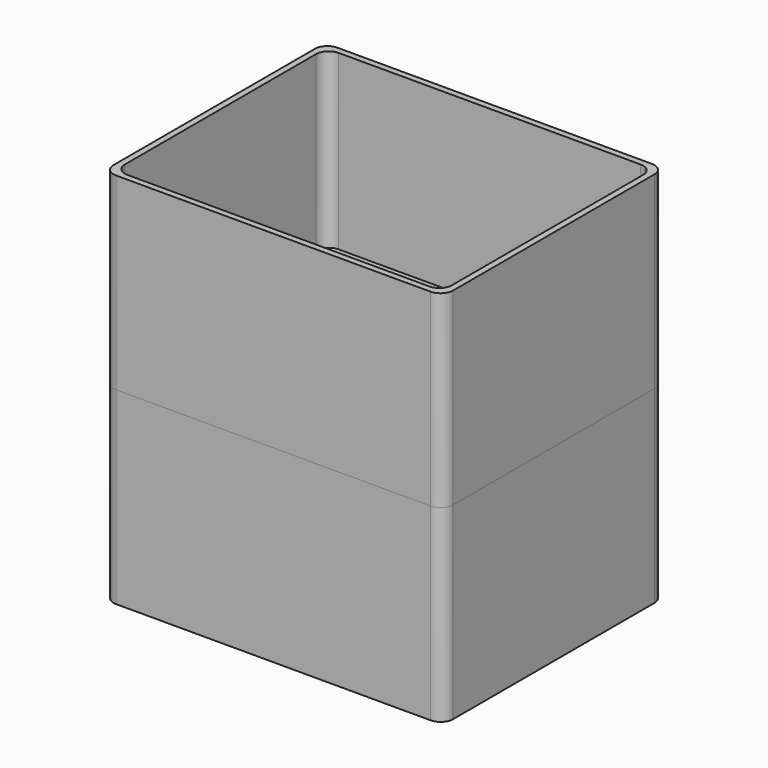
from build123d import *

# Parameters (mm, degrees)
F1_DEPTH = 38.1
F3_DEPTH = 35.56
F5_DEPTH = 3.175
F6_DEPTH = 38.1


with BuildPart() as f1:
    # F0 (on Top) → F1 (new body)
    with BuildSketch(Plane.XY):
        with BuildLine():
            Line((-31.75, -27.94), (31.75, -27.94))
            ThreePointArc((31.75, -27.94), (33.5460512242, -27.1960512242), (34.29, -25.4))
            Line((34.29, -25.4), (34.29, 25.4))
            ThreePointArc((34.29, 25.4), (33.5460512242, 27.1960512242), (31.75, 27.94))
            Line((31.75, 27.94), (-31.75, 27.94))
            ThreePointArc((-31.75, 27.94), (-33.5460512242, 27.1960512242), (-34.29, 25.4))
            Line((-34.29, 25.4), (-34.29, -25.4))
            ThreePointArc((-34.29, -25.4), (-33.5460512242, -27.1960512242), (-31.75, -27.94))
        make_face()
    extrude(amount=F1_DEPTH)

    # F2 (on face) → F3 (cut)
    with BuildSketch(Plane.XY.offset(38.1)):
        with BuildLine():
            ThreePointArc((33.02, 24.13), (32.2760512242, 25.9260512242), (30.48, 26.67))
            Line((30.48, 26.67), (-30.48, 26.67))
            ThreePointArc((-30.48, 26.67), (-32.2760512242, 25.9260512242), (-33.02, 24.13))
            Line((-33.02, 24.13), (-33.02, -24.13))
            ThreePointArc((-33.02, -24.13), (-32.2760512242, -25.9260512242), (-30.48, -26.67))
            Line((-30.48, -26.67), (30.48, -26.67))
            ThreePointArc((30.48, -26.67), (32.2760512242, -25.9260512242), (33.02, -24.13))
            Line((33.02, -24.13), (33.02, 24.13))
        make_face()
    extrude(amount=-F3_DEPTH, mode=Mode.SUBTRACT)

    # F4 (on face) → F5 (join, symmetric)
    with BuildSketch(Plane.XY.offset(38.1)):
        with BuildLine():
            ThreePointArc((33.02, 24.13), (32.2760512242, 25.9260512242), (30.48, 26.67))
            Line((30.48, 26.67), (-30.48, 26.67))
            ThreePointArc((-30.48, 26.67), (-32.2760512242, 25.9260512242), (-33.02, 24.13))
            Line((-33.02, 24.13), (-33.02, -24.13))
            ThreePointArc((-33.02, -24.13), (-32.2760512242, -25.9260512242), (-30.48, -26.67))
            Line((-30.48, -26.67), (30.48, -26.67))
            ThreePointArc((30.48, -26.67), (32.2760512242, -25.9260512242), (33.02, -24.13))
            Line((33.02, -24.13), (33.02, 24.13))
        make_face()
        with BuildLine():
            Line((-29.21, 24.13), (29.21, 24.13))
            ThreePointArc((29.21, 24.13), (30.1080256121, 23.7580256121), (30.48, 22.86))
            Line((30.48, 22.86), (30.48, -22.86))
            ThreePointArc((30.48, -22.86), (30.1080256121, -23.7580256121), (29.21, -24.13))
            Line((29.21, -24.13), (-29.21, -24.13))
            ThreePointArc((-29.21, -24.13), (-30.1080256121, -23.7580256121), (-30.48, -22.86))
            Line((-30.48, -22.86), (-30.48, 22.86))
            ThreePointArc((-30.48, 22.86), (-30.1080256121, 23.7580256121), (-29.21, 24.13))
        make_face(mode=Mode.SUBTRACT)
    extrude(amount=F5_DEPTH, both=True)


with BuildPart() as f6:
    # F6 (new): a face of the model
    f6_faces = [f1.part.faces().sort_by_distance(p)[0] for p in [
        (0, -27.0553650018, 38.1),
    ]]
    extrude(f6_faces, amount=F6_DEPTH)


solid = Compound([f1.part, f6.part])
